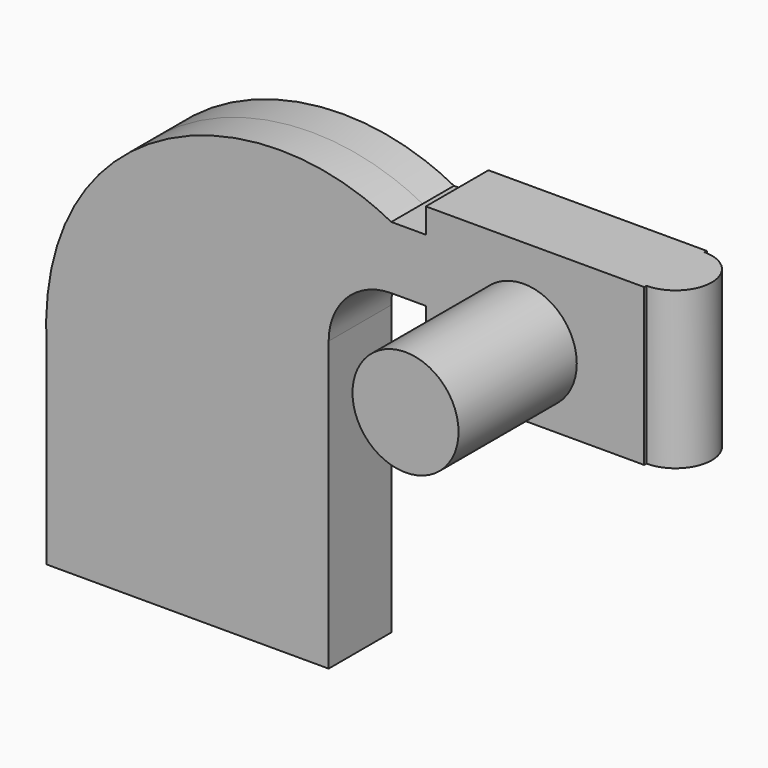
from build123d import *

# Parameters (mm, degrees)
F0_W     = 42.7631036925
F0_H     = 22.0432821037
F0_H_2   = 7.9567178963
F0_H_3   = 20
F1_DEPTH = 12.5
F2_R     = 11.5788396241
F3_DEPTH = 50
F4_R     = 16.9293792231
F5_DEPTH = 47.1764579415


with BuildPart() as f1:
    # F0 (on Front) → F1 (new body, symmetric)
    with BuildSketch(Plane.XZ):
        Polygon((25, 30), (-45, 30), (-45, -30), (45, -30), (45, 30), align=None)
        with BuildLine():
            add(Edge.make_bspline(
                [(-45, 30), (-49.6783256531, 98.533667624), (19.1648956388, 126.3746768236), (65, 102.0432821037)],
                knots=[0, 0, 0, 0, 131.4923362644, 131.4923362644, 131.4923362644, 131.4923362644], degree=3))
            Line((-45, 30), (25, 30))
            Line((25, 30), (25, 62.0432821037))
            ThreePointArc((25, 62.0432821037), (36.7157287525, 90.3275533511), (65, 102.0432821037))
        make_face()
        with Locations((97.3985187706, 71.0216410518)):
            Rectangle(F0_W, F0_H)
        with Locations((97.3985187706, 106.0216410518)):
            Rectangle(F0_W, F0_H_2)
        with BuildLine():
            Line((25, 62.0432821037), (25, 30))
            Line((25, 30), (45, 30))
            Line((45, 30), (45, 62.0432821037))
            ThreePointArc((45, 62.0432821037), (50.8578643763, 76.1854177274), (65, 82.0432821037))
            Line((65, 82.0432821037), (76.0169669243, 82.0432821037))
            Line((76.0169669243, 82.0432821037), (76.0169669243, 102.0432821037))
            Line((76.0169669243, 102.0432821037), (65, 102.0432821037))
            ThreePointArc((65, 102.0432821037), (36.7157287525, 90.3275533511), (25, 62.0432821037))
        make_face()
        Polygon((118.7800706168, 110), (118.7800706168, 102.0432821037), (118.7800706168, 82.0432821037), (118.7800706168, 60), (145.7395272495, 60), (145.7395272495, 110), align=None)
        with Locations((97.3985187706, 92.0432821037)):
            Rectangle(F0_W, F0_H_3)
    extrude(amount=F1_DEPTH, both=True)

    # F2 (on face) → F3 (join)
    with BuildSketch(Plane.XY.offset(110)):
        with Locations((145.7395272495, 0)):
            Circle(F2_R)
    extrude(amount=-F3_DEPTH)

    # F4 (on face) → F5 (join)
    with BuildSketch(Plane.XZ.offset(12.5)):
        with Locations((107.2820425034, 81.4744457603)):
            Circle(F4_R)
    extrude(amount=F5_DEPTH)


solid = f1.part
